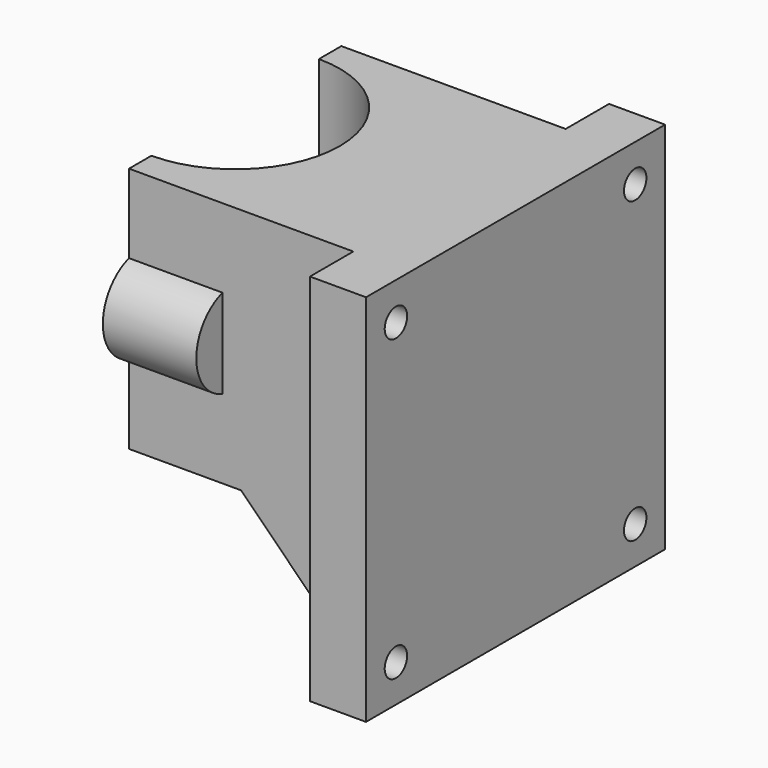
from build123d import *

# Parameters (mm, degrees)
PAD005_DEPTH    = 26.4
SKETCH068_W     = 6
SKETCH068_H     = 40
PAD006_DEPTH    = 13.6
SKETCH070_R     = 1.5
POCKET004_DEPTH = 6
PAD007_DEPTH    = 10
SKETCH071_R     = 1.5
POCKET005_DEPTH = 9
CHAMFER003_SIZE = 12


with BuildPart() as part:
    # Sketch067 → Pad005 (new body)
    with BuildSketch(Plane.XY.offset(19.5)):
        with BuildLine():
            ThreePointArc((0, -11.2), (11.2, 0), (0, 11.2))
            Line((0, 11.2), (0, 14.2))
            Line((0, 14.2), (24, 14.2))
            Line((24, 14.2), (24, 20))
            Line((30, 20), (24, 20))
            Line((30, 20), (30, -20))
            Line((30, -20), (24, -20))
            Line((24, -14.2), (24, -20))
            Line((0, -14.2), (24, -14.2))
            Line((0, -11.2), (0, -14.2))
        make_face()
    extrude(amount=PAD005_DEPTH)

    # Sketch068 → Pad006 (new body)
    with BuildSketch(Plane(origin=(0, 0, 19.5), x_dir=(1, 0, 0), z_dir=(0, 0, -1))):
        with Locations((27, 0)):
            Rectangle(SKETCH068_W, SKETCH068_H)
    extrude(amount=PAD006_DEPTH)

    # Sketch070 → Pocket004 (cut)
    with BuildSketch(Plane(origin=(30, 0, 19.5), x_dir=(0, 1, 0), z_dir=(1, 0, 0))):
        with Locations((-16, 22.4)):
            Circle(SKETCH070_R)
        with Locations((16, 22.4)):
            Circle(SKETCH070_R)
        with Locations((16, -9.6)):
            Circle(SKETCH070_R)
        with Locations((-16, -9.6)):
            Circle(SKETCH070_R)
    extrude(amount=-POCKET004_DEPTH, mode=Mode.SUBTRACT)

    # Sketch069 → Pad007 (new body)
    with BuildSketch(Plane(origin=(0, 0, 19.5), x_dir=(0, -1, 0), z_dir=(-1, 0, 0))):
        with BuildLine():
            ThreePointArc((-11.2, 17.969696), (-17.7, 13.2), (-11.2, 8.430304))
            Line((-11.2, 17.969696), (-11.2, 8.430304))
        make_face()
        with BuildLine():
            ThreePointArc((11.2, 8.430304), (17.7, 13.2), (11.2, 17.969696))
            Line((11.2, 17.969696), (11.2, 8.430304))
        make_face()
    extrude(amount=-PAD007_DEPTH)

    # Sketch071 → Pocket005 (cut)
    with BuildSketch(Plane(origin=(0, 0, 19.5), x_dir=(0, -1, 0), z_dir=(-1, 0, 0))):
        with Locations((-14.2, 13.2)):
            Circle(SKETCH071_R)
        with Locations((14.2, 13.2)):
            Circle(SKETCH071_R)
    extrude(amount=-POCKET005_DEPTH, mode=Mode.SUBTRACT)

    # Chamfer003
    chamfer003_edges = [part.edges().sort_by_distance(p)[0] for p in [
        (24, 0, 19.5),
    ]]
    chamfer(chamfer003_edges, length=CHAMFER003_SIZE)


solid = part.part
